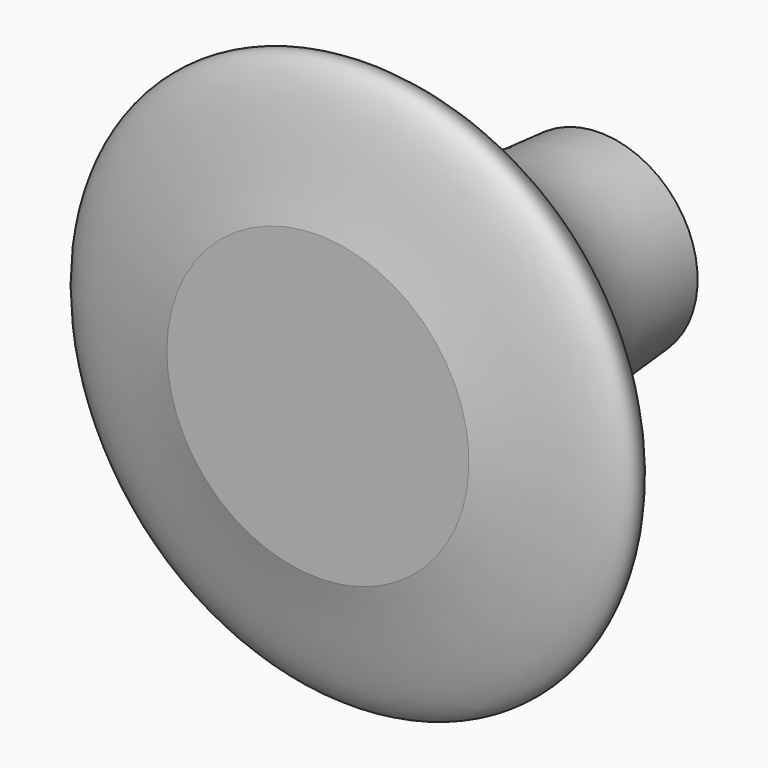
from build123d import *


with BuildPart() as f1:
    # F0 (on Top) → F1 (revolve)
    with BuildSketch(Plane.XY):
        with BuildLine():
            Line((0, -25), (0, 0))
            Line((0, 0), (-6.9328010775, 0))
            add(Edge.make_bspline(
                [(-10.7154102824, -25), (-15.3576035895, -23.7270603124), (-25.3039210628, -22.9076094626), (-8.0372907404, -12.0759258786), (-7.1749909719, -4.4900723026), (-6.9328010775, 0)],
                knots=[0, 0, 0, 0, 0.3038322882, 0.6579830965, 1, 1, 1, 1], degree=3))
            Line((-10.7154102824, -25), (0, -25))
        make_face()
    revolve(axis=Axis((0, -12.5, 0), (0, -1, 0)))


solid = f1.part
